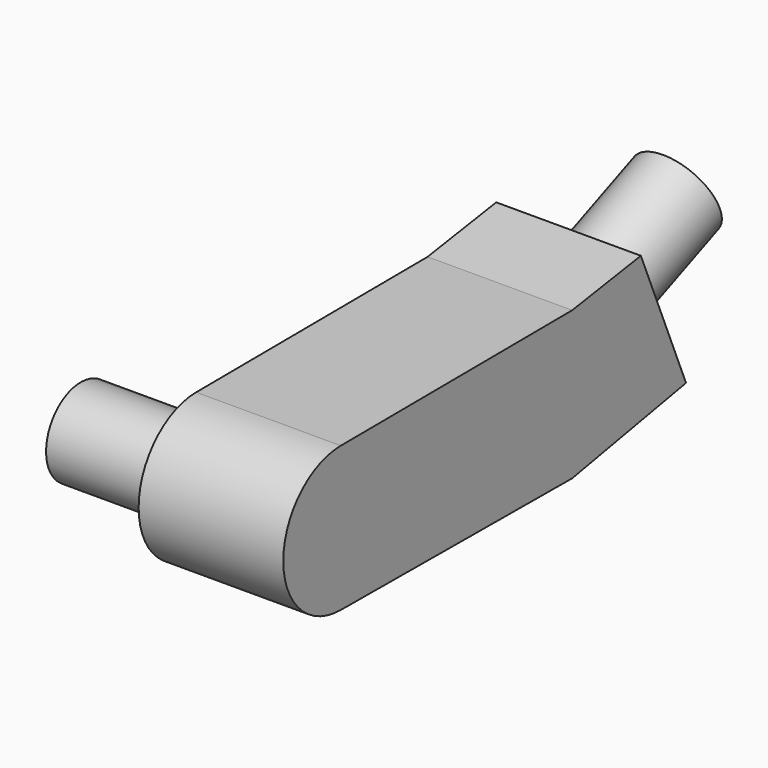
from build123d import *

# Parameters (mm, degrees)
F1_DEPTH = 5
F2_R     = 1.5
F3_DEPTH = 4
F4_R     = 1.5
F5_DEPTH = 4


with BuildPart() as f1:
    # F0 (on Right) → F1 (new body)
    with BuildSketch(Plane.YZ):
        Polygon((9.999834287, 0.0575693728), (0, 0), (0, -5), (9.999834287, -5.0575693728), (14.9176799717, -4.1549100676), (12.9655016395, 0.510136665), align=None)
        with BuildLine():
            Line((0, -5), (0, 0))
            ThreePointArc((0, 0), (-2.4856488472, -2.5), (0, -5))
        make_face()
    extrude(amount=F1_DEPTH)

    # F2 (on face) → F3 (join)
    with BuildSketch(Plane(origin=(0, 0, 0), x_dir=(0, -1, 0), z_dir=(-1, 0, 0))):
        with Locations((-0.0143925817, -2.5)):
            Circle(F2_R)
    extrude(amount=F3_DEPTH)

    # F4 (on face) → F5 (join)
    with BuildSketch(Plane(origin=(0, 11.2150399751, 4.6931487054), x_dir=(-1, 0, 0), z_dir=(0, 0.9224854916, 0.3860317574))):
        with Locations((-2.5, -7.0630220916)):
            Circle(F4_R)
    extrude(amount=F5_DEPTH)


solid = f1.part
